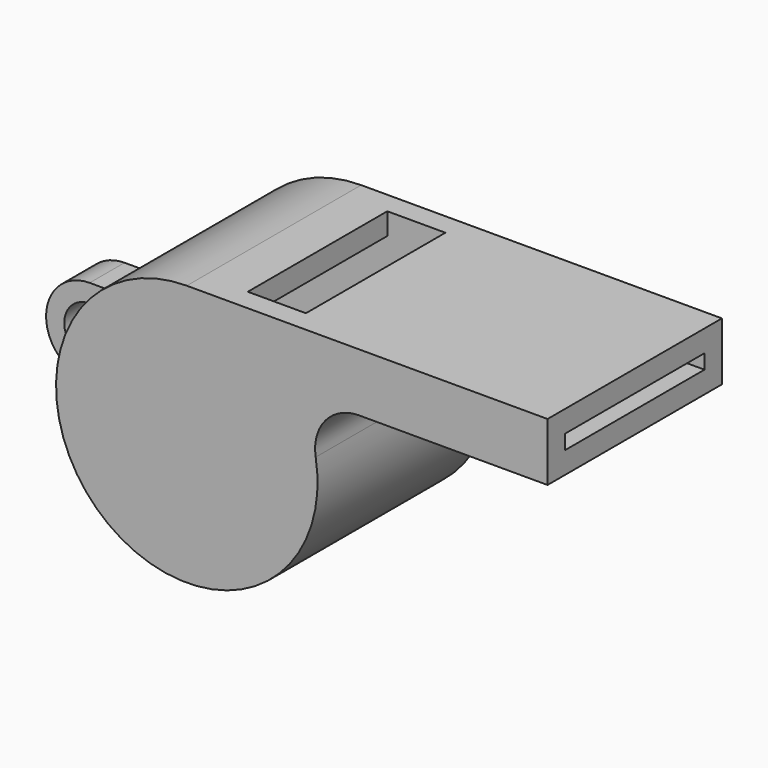
from build123d import *

# Parameters (mm, degrees)
F1_DEPTH = 7.5
F2_T     = -1.5
F3_W     = 4
F3_H     = 12
F4_DEPTH = 1.5
F5_R     = 1.75
F6_DEPTH = 1.5


with BuildPart() as f1:
    # F0 (on Front) → F1 (new body, symmetric)
    with BuildSketch(Plane.XZ):
        with BuildLine():
            Line((24.8321595662, 9), (0, 9))
            ThreePointArc((0, 9), (-5.8094750193, -6.8738635424), (8.8741196746, 1.5))
            ThreePointArc((8.8741196746, 1.5), (9.5408717187, 3.9364916731), (11.8321595662, 5))
            Line((11.8321595662, 5), (24.8321595662, 5))
            Line((24.8321595662, 5), (24.8321595662, 9))
        make_face()
    extrude(amount=F1_DEPTH, both=True)

    # F2
    f2_openings = [f1.faces().sort_by_distance(p)[0] for p in [
        (24.83216, 0, 7),
    ]]
    offset(amount=F2_T, openings=f2_openings)

    # F3 (on face) → F4 (cut)
    with BuildSketch(Plane.XY.offset(9)):
        with Locations((5, 0)):
            Rectangle(F3_W, F3_H)
    extrude(amount=-F4_DEPTH, mode=Mode.SUBTRACT)

    # F5 (on Front) → F6 (join, symmetric)
    with BuildSketch(Plane.XZ):
        with BuildLine():
            Line((-8.4852813742, 3), (-11.4852813742, 3))
            ThreePointArc((-11.4852813742, 3), (-14.4852813742, 0), (-11.4852813742, -3))
            Line((-11.4852813742, -3), (-8.4852813742, -3))
            Line((-8.4852813742, -3), (-8.4852813742, 3))
        make_face()
        with Locations((-11.4852813742, 0)):
            Circle(F5_R, mode=Mode.SUBTRACT)
    extrude(amount=F6_DEPTH, both=True)


with BuildPart() as f8:
    # F7 (on Front) → F8 (revolve)
    with BuildSketch(Plane.XZ):
        with BuildLine():
            Line((0, 2.5), (0, -7.5))
            ThreePointArc((0, -7.5), (5, -2.5), (0, 2.5))
        make_face()
    revolve(axis=Axis((0, 0, -2.5), (0, 0, -1)))


solid = Compound([f1.part, f8.part])
